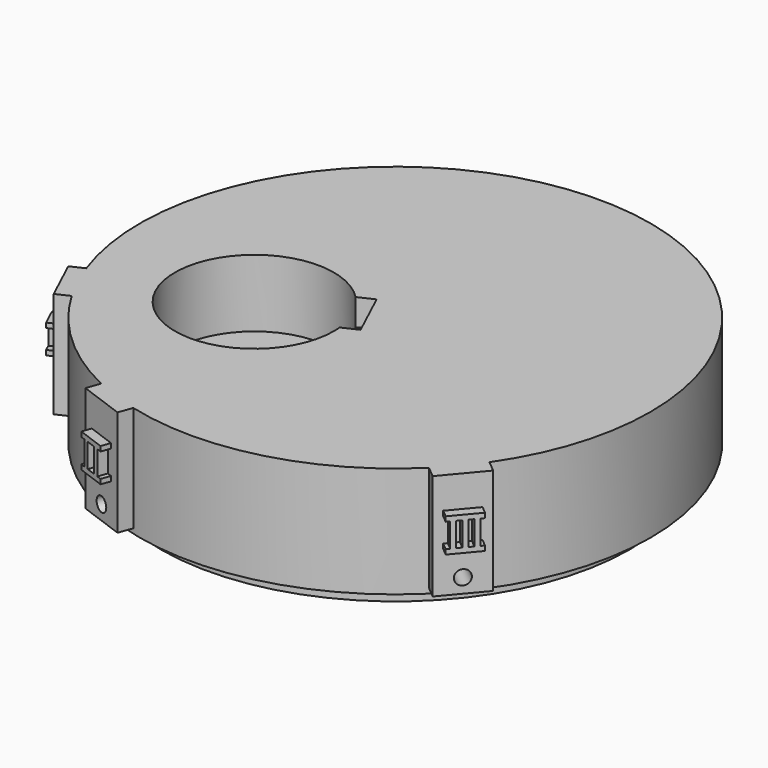
from build123d import *

# Parameters (mm, degrees)
F0_R      = 53
F1_DEPTH  = 26.5
F2_R      = 53
F2_R_2    = 48.75
F3_DEPTH  = 3.5
F4_R      = 2.75
F5_DEPTH  = 17
F6_DEPTH  = 4.5
F8_DEPTH  = 14
F9_R      = 3.25
F10_DEPTH = 12.5
F11_DEPTH = 10
F12_DEPTH = 22
F13_DEPTH = 5.5
F14_R     = 1.5
F15_DEPTH = 25
F16_R     = 1.5
F17_DEPTH = 25
F19_DEPTH = 2
F14_W     = 2
F14_H     = 5
F20_DEPTH = 2
F16_W     = 1
F16_H     = 5
F21_DEPTH = 2


with BuildPart() as f1:
    # F0 (on Top) → F1 (new body)
    with BuildSketch(Plane.XY):
        Circle(F0_R)
    extrude(amount=F1_DEPTH)

    # F2 (on face) → F3 (cut)
    with BuildSketch(Plane(origin=(0, 0, 0), x_dir=(1, 0, 0), z_dir=(0, 0, -1))):
        Circle(F2_R)
        Circle(F2_R_2, mode=Mode.SUBTRACT)
        with BuildLine():
            ThreePointArc((0, 6), (-4.2426406871, -4.2426406871), (6, 0))
            ThreePointArc((6, 0), (5.6381557247, 2.05212086), (4.5962666587, 3.8567256581))
            Line((4.5962666587, 3.8567256581), (0, 0))
            Line((0, 0), (0, 6))
        make_face()
        with BuildLine():
            Line((0, 0), (4.5962666587, 3.8567256581))
            ThreePointArc((4.5962666587, 3.8567256581), (2.5357095704, 5.4378467222), (0, 6))
            Line((0, 6), (0, 0))
        make_face()
    extrude(amount=-F3_DEPTH, mode=Mode.SUBTRACT)

    # F4 (on face) → F5 (cut)
    with BuildSketch(Plane(origin=(0, 0, 3.5), x_dir=(1, 0, 0), z_dir=(0, 0, -1))):
        Circle(F4_R)
    extrude(amount=-F5_DEPTH, mode=Mode.SUBTRACT)

    # F2 (on face) → F6 (cut)
    with BuildSketch(Plane(origin=(0, 0, 0), x_dir=(1, 0, 0), z_dir=(0, 0, -1))):
        with BuildLine():
            ThreePointArc((-40.25, 5.06e-08), (-35.0000000253, -5.25), (-29.75, 0))
            ThreePointArc((-29.75, 0), (-34.9999999747, 5.25), (-40.25, 5.06e-08))
        make_face()
        with BuildLine():
            ThreePointArc((40.25, 0), (35, -5.25), (29.75, 0))
            ThreePointArc((29.75, 0), (0, -29.75), (-29.75, 0))
            ThreePointArc((-29.75, 0), (-35.0000000253, -5.25), (-40.25, 5.06e-08))
            ThreePointArc((-40.25, 5.06e-08), (-2.53e-08, -40.25), (40.25, 0))
        make_face()
        with BuildLine():
            ThreePointArc((40.25, 0), (35, 5.25), (29.75, 0))
            ThreePointArc((29.75, 0), (35, -5.25), (40.25, 0))
        make_face()
    extrude(amount=-F6_DEPTH, mode=Mode.SUBTRACT)

    # F7 (on face) → F8 (cut)
    with BuildSketch(Plane.XY.offset(26.5)):
        with BuildLine():
            ThreePointArc((-9.5237930297, 1.6275609299), (-36.5712199238, -16.1753957641), (-4.7982329954, -9.9315291509))
            ThreePointArc((-4.7982329954, -9.9315291509), (-4.8174339562, -9.1357508964), (-4.8749921506, -8.3418247275))
            ThreePointArc((-4.8749921506, -8.3418247275), (-5.3803326375, -5.587516237), (-6.3441545093, -2.9583278322))
            ThreePointArc((-6.3441545093, -2.9583278322), (-7.7386969196, -0.529987713), (-9.5237930297, 1.6275609299))
        make_face()
    extrude(amount=-F8_DEPTH, mode=Mode.SUBTRACT)

    # F9 (on face) → F10 (cut)
    with BuildSketch(Plane.XY.offset(12.5)):
        with Locations((-21.2982329954, -9.9315291509)):
            Circle(F9_R)
    extrude(amount=-F10_DEPTH, mode=Mode.SUBTRACT)

    # F2 (on face) → F11 (cut)
    with BuildSketch(Plane(origin=(0, 0, 0), x_dir=(1, 0, 0), z_dir=(0, 0, -1))):
        with BuildLine():
            ThreePointArc((4.4625266318, 22.0827765885), (3.7995194773, 26.099690874), (1.8808305715, 29.6904862938))
            ThreePointArc((1.8808305715, 29.6904862938), (-10.1750992639, 27.9558554684), (-20.525476523, 21.5352574516))
            ThreePointArc((-20.525476523, 21.5352574516), (-7.763648091, 9.5857761597), (4.4625266318, 22.0827765885))
        make_face()
        with BuildLine():
            ThreePointArc((-20.525476523, 21.5352574516), (-10.1750992639, 27.9558554684), (1.8808305715, 29.6904862938))
            ThreePointArc((1.8808305715, 29.6904862938), (-12.3127251597, 33.8289343483), (-20.525476523, 21.5352574516))
        make_face()
        with BuildLine():
            ThreePointArc((13.2163960917, 26.6531306669), (5.8599977512, 18.0754756382), (8.4264888743, 7.0706637066))
            ThreePointArc((8.4264888743, 7.0706637066), (18.8184464785, 2.632197813), (28.5432128195, 8.3873417686))
            ThreePointArc((28.5432128195, 8.3873417686), (22.7898221828, 19.1229313882), (13.2163960917, 26.6531306669))
        make_face()
        with BuildLine():
            ThreePointArc((30.5020444133, 15.1055088276), (24.9457248488, 25.499512003), (13.2163960917, 26.6531306669))
            ThreePointArc((13.2163960917, 26.6531306669), (22.7898221828, 19.1229313882), (28.5432128195, 8.3873417686))
            ThreePointArc((28.5432128195, 8.3873417686), (30.0023486819, 11.6065522029), (30.5020444133, 15.1055088276))
        make_face()
    extrude(amount=-F11_DEPTH, mode=Mode.SUBTRACT)

    # F7 (on face) → F12 (join)
    with BuildSketch(Plane.XY.offset(26.5)):
        with BuildLine():
            Line((-48.4259152046, -28.0982647079), (-45.7069918435, -26.8304099227))
            ThreePointArc((-45.7069918435, -26.8304099227), (-48.0343127129, -22.3987678723), (-49.9331744609, -17.7673320523))
            Line((-49.9331744609, -17.7673320523), (-52.652097822, -19.0351868375))
            Line((-52.652097822, -19.0351868375), (-48.4259152046, -28.0982647079))
        make_face()
        with BuildLine():
            ThreePointArc((-13.3477590818, -51.2916886785), (-15.7549896718, -50.604152996), (-18.1270675963, -49.8037089017))
            ThreePointArc((-18.1270675963, -49.8037089017), (-20.458700255, -48.8921423531), (-22.7446852897, -47.8714872453))
            Line((-22.7446852897, -47.8714872453), (-23.7707457197, -50.6905651076))
            Line((-23.7707457197, -50.6905651076), (-14.3738195118, -54.1107665409))
            Line((-14.3738195118, -54.1107665409), (-13.3477590818, -51.2916886785))
        make_face()
        with BuildLine():
            ThreePointArc((43.6332188846, -30.0855814265), (42.1638253258, -32.1124871957), (40.6003554853, -34.0677433134))
            ThreePointArc((40.6003554853, -34.0677433134), (38.9462977901, -35.9469871956), (37.2053427877, -37.7460258577))
            Line((37.2053427877, -37.7460258577), (39.5034761171, -39.6743886867))
            Line((39.5034761171, -39.6743886867), (45.9313522139, -32.0139442555))
            Line((45.9313522139, -32.0139442555), (43.6332188846, -30.0855814265))
        make_face()
    extrude(amount=-F12_DEPTH)

    # F7 (on face) → F13 (cut)
    with BuildSketch(Plane.XY.offset(26.5)):
        with BuildLine():
            Line((-6.3517157751, 3.106724846), (-9.5237930297, 1.6275609299))
            ThreePointArc((-9.5237930297, 1.6275609299), (-7.7386969196, -0.529987713), (-6.3441545093, -2.9583278322))
            Line((-6.3441545093, -2.9583278322), (-4.0273153355, -1.8779679828))
            Line((-4.0273153355, -1.8779679828), (-6.3517157751, 3.106724846))
        make_face()
        with BuildLine():
            ThreePointArc((-6.3441545093, -2.9583278322), (-5.3803326375, -5.587516237), (-4.8749921506, -8.3418247275))
            Line((-4.8749921506, -8.3418247275), (-2.6602923891, -7.3090932683))
            Line((-2.6602923891, -7.3090932683), (-2.1493473528, -5.9052833183))
            Line((-2.1493473528, -5.9052833183), (-4.0273153355, -1.8779679828))
            Line((-4.0273153355, -1.8779679828), (-6.3441545093, -2.9583278322))
        make_face()
        Polygon((-2.1493473528, -5.9052833183), (-2.6602923891, -7.3090932683), (-1.7029148959, -6.8626608115), align=None)
    extrude(amount=-F13_DEPTH, mode=Mode.SUBTRACT)

    # F14 (on face) → F15 (cut)
    with BuildSketch(Plane(origin=(-19.0722826158, -52.4006658242, 0), x_dir=(0.9396926208, -0.3420201433, 0), z_dir=(-0.3420201433, -0.9396926208, 0))):
        with Locations((0, 7.5)):
            Circle(F14_R)
    extrude(amount=-F15_DEPTH, mode=Mode.SUBTRACT)

    # F16 (on face) → F17 (cut)
    with BuildSketch(Plane(origin=(42.7174141655, -35.8441664711, 0), x_dir=(0.6427876097, 0.7660444431, 0), z_dir=(0.7660444431, -0.6427876097, 0))):
        with Locations((0, 7.5)):
            Circle(F16_R)
    extrude(amount=-F17_DEPTH, mode=Mode.SUBTRACT)

    # F18 (on face) → F19 (join)
    with BuildSketch(Plane(origin=(-50.5390065133, -23.5667257727, 0), x_dir=(0.4226182617, -0.906307787, 0), z_dir=(-0.906307787, -0.4226182617, 0))):
        Polygon((2, 19.5), (-2, 19.5), (-2, 18.5), (-0.5, 18.5), (-0.5, 14.5), (-2, 14.5), (-2, 13.5), (2, 13.5), (2, 14.5), (0.5, 14.5), (0.5, 18.5), (2, 18.5), align=None)
    extrude(amount=F19_DEPTH)

    # F14 (on face) → F20 (join)
    with BuildSketch(Plane(origin=(-19.0722826158, -52.4006658242, 0), x_dir=(0.9396926208, -0.3420201433, 0), z_dir=(-0.3420201433, -0.9396926208, 0))):
        Polygon((3, 20), (-3, 20), (-3, 19), (-2, 19), (-2, 14), (-3, 14), (-3, 13), (3, 13), (3, 14), (2, 14), (2, 19), (3, 19), align=None)
        with Locations((0, 16.5)):
            Rectangle(F14_W, F14_H, mode=Mode.SUBTRACT)
    extrude(amount=F20_DEPTH)

    # F16 (on face) → F21 (join)
    with BuildSketch(Plane(origin=(42.7174141655, -35.8441664711, 0), x_dir=(0.6427876097, 0.7660444431, 0), z_dir=(0.7660444431, -0.6427876097, 0))):
        Polygon((3.25, 20), (-3.25, 20), (-3.25, 19), (-2.5, 19), (-2.5, 14), (-3.25, 14), (-3.25, 13), (3.25, 13), (3.25, 14), (2.5, 14), (2.5, 19), (3.25, 19), align=None)
        with Locations((-1, 16.5)):
            Rectangle(F16_W, F16_H, mode=Mode.SUBTRACT)
        with Locations((1, 16.5)):
            Rectangle(F16_W, F16_H, mode=Mode.SUBTRACT)
    extrude(amount=F21_DEPTH)


solid = f1.part
